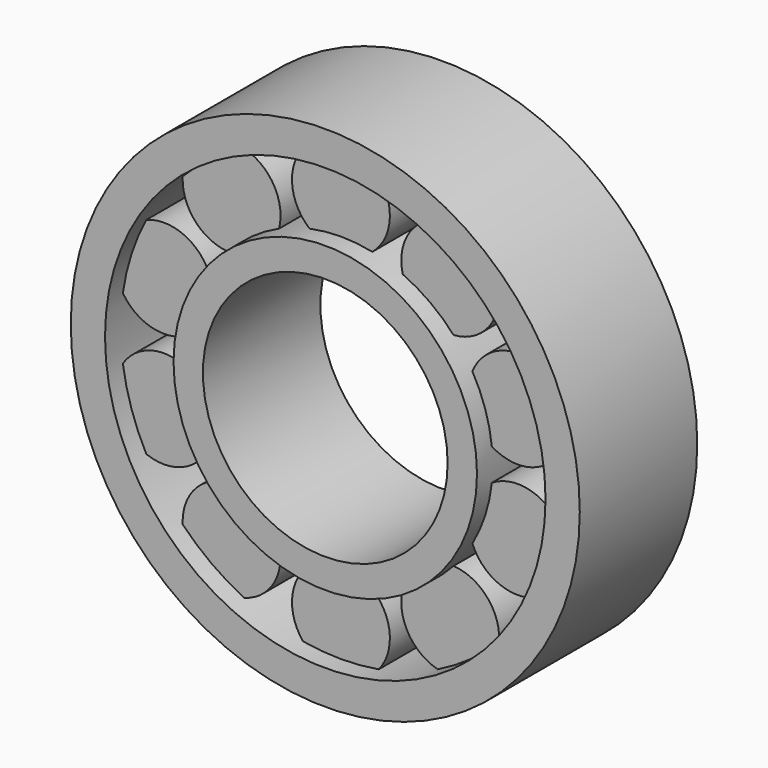
from build123d import *

# Parameters (mm, degrees)
F3_R     = 5
F4_DEPTH = 11
F1_R     = 15.5
F1_R_2   = 12.5
F5_DEPTH = 15
F2_R     = 26
F2_R_2   = 22.5
F6_DEPTH = 15


with BuildPart() as f4:
    # F3 (on offset) → F4 (new body)
    with BuildSketch(Plane.XZ.offset(2)):
        with Locations((0, 19)):
            Circle(F3_R)
    extrude(amount=F4_DEPTH)



with BuildPart() as f4b:
    # F3 (on offset) → F4, piece 2 (new body)
    with BuildSketch(Plane.XZ.offset(2)):
        with Locations((-11.1679197936, 15.3713228931)):
            Circle(F3_R)
    extrude(amount=F4_DEPTH)


with BuildPart() as f4c:
    # F3 (on offset) → F4, piece 3 (new body)
    with BuildSketch(Plane.XZ.offset(2)):
        with Locations((-18.0700738096, 5.8713228931)):
            Circle(F3_R)
    extrude(amount=F4_DEPTH)


with BuildPart() as f4d:
    # F3 (on offset) → F4, piece 4 (new body)
    with BuildSketch(Plane.XZ.offset(2)):
        with Locations((-18.0700738096, -5.8713228931)):
            Circle(F3_R)
    extrude(amount=F4_DEPTH)


with BuildPart() as f4e:
    # F3 (on offset) → F4, piece 5 (new body)
    with BuildSketch(Plane.XZ.offset(2)):
        with Locations((-11.1679197936, -15.3713228931)):
            Circle(F3_R)
    extrude(amount=F4_DEPTH)


with BuildPart() as f4f:
    # F3 (on offset) → F4, piece 6 (new body)
    with BuildSketch(Plane.XZ.offset(2)):
        with Locations((0, -19)):
            Circle(F3_R)
    extrude(amount=F4_DEPTH)


with BuildPart() as f4g:
    # F3 (on offset) → F4, piece 7 (new body)
    with BuildSketch(Plane.XZ.offset(2)):
        with Locations((11.1679197936, -15.3713228931)):
            Circle(F3_R)
    extrude(amount=F4_DEPTH)


with BuildPart() as f4h:
    # F3 (on offset) → F4, piece 8 (new body)
    with BuildSketch(Plane.XZ.offset(2)):
        with Locations((18.0700738096, -5.8713228931)):
            Circle(F3_R)
    extrude(amount=F4_DEPTH)


with BuildPart() as f4i:
    # F3 (on offset) → F4, piece 9 (new body)
    with BuildSketch(Plane.XZ.offset(2)):
        with Locations((18.0700738096, 5.8713228931)):
            Circle(F3_R)
    extrude(amount=F4_DEPTH)


with BuildPart() as f4j:
    # F3 (on offset) → F4, piece 10 (new body)
    with BuildSketch(Plane.XZ.offset(2)):
        with Locations((11.1679197936, 15.3713228931)):
            Circle(F3_R)
    extrude(amount=F4_DEPTH)


with BuildPart() as f4_1:
    add(f4.part)

    add(f4b.part)  # F5 merges F4b

    add(f4c.part)  # F5 merges F4c

    add(f4d.part)  # F5 merges F4d

    add(f4e.part)  # F5 merges F4e

    add(f4f.part)  # F5 merges F4f

    add(f4g.part)  # F5 merges F4g

    add(f4h.part)  # F5 merges F4h

    add(f4i.part)  # F5 merges F4i

    add(f4j.part)  # F5 merges F4j
    # F1 (on Front) → F5 (join)
    with BuildSketch(Plane.XZ):
        Circle(F1_R)
        Circle(F1_R_2, mode=Mode.SUBTRACT)
    extrude(amount=F5_DEPTH)

    # F2 (on Front) → F6 (join)
    with BuildSketch(Plane.XZ):
        Circle(F2_R)
        Circle(F2_R_2, mode=Mode.SUBTRACT)
    extrude(amount=F6_DEPTH)


solid = f4_1.part
